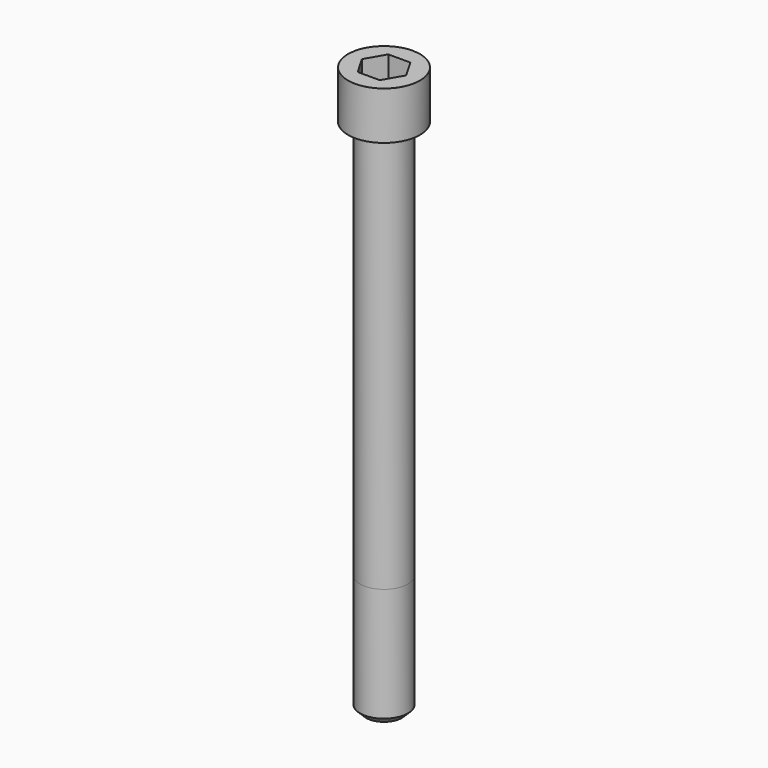
from build123d import *

# Parameters (mm, degrees)
POCKET_DEPTH = 19.15


with BuildPart() as part:
    # Sketch → Revolve (revolve)
    with BuildSketch(Plane.YZ):
        with BuildLine():
            Line((11.999, 0), (18, 0))
            Line((18, 0), (18, 23.97229))
            ThreePointArc((18, 23.97229), (17.991884, 23.991884), (17.97229, 24))
            Line((17.97229, 24), (0, 24))
            Line((0, -260), (0, 24))
            Line((9, -260), (0, -260))
            Line((12, -257), (9, -260))
            Line((12, -200), (12, -257))
            Line((11.999, 0), (12, -200))
        make_face()
    revolve(axis=Axis((0, 0, 0), (0, 0, 1)))

    # Sketch001 → Pocket (cut)
    with BuildSketch(Plane.XY.offset(24)):
        Polygon((11.056258, 0), (5.528129, 9.575), (-5.528129, 9.575), (-11.056258, 0), (-5.528129, -9.575), (5.528129, -9.575), align=None)
    extrude(amount=-POCKET_DEPTH, mode=Mode.SUBTRACT)


solid = part.part
